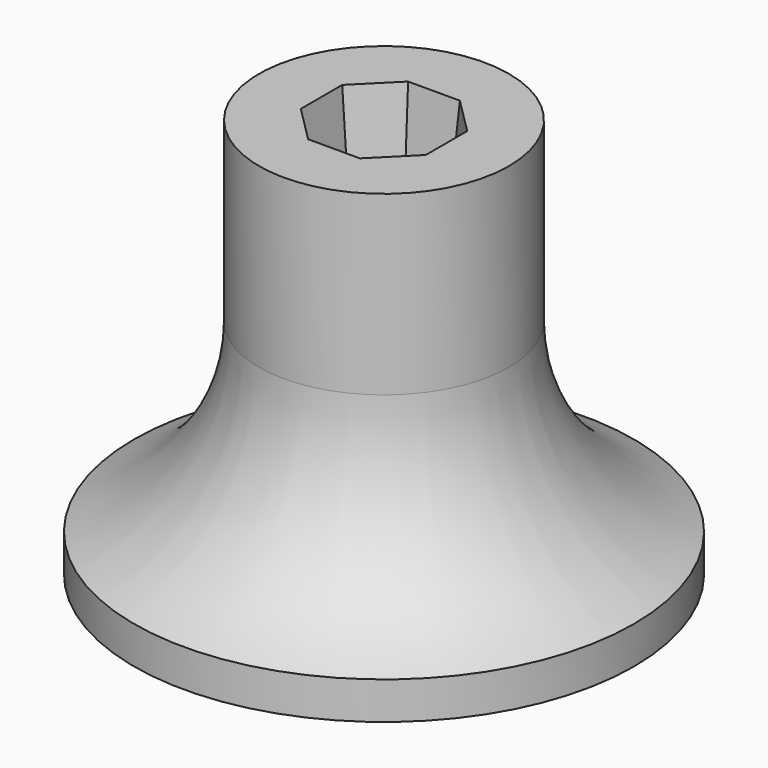
from build123d import *


with BuildPart() as f1:
    # F0 (on Front) → F1 (revolve)
    with BuildSketch(Plane.XZ):
        with BuildLine():
            Line((0, 50.8), (0, 0))
            Line((0, 0), (31.75, 0))
            Line((31.75, 0), (31.75, 4.7625))
            ThreePointArc((31.75, 4.7625), (20.214433, 14.109899), (15.875, 28.30893))
            Line((15.875, 28.30893), (15.875, 50.8))
            Line((15.875, 50.8), (0, 50.8))
        make_face()
    revolve(axis=Axis((0, 0, 25.4), (0, 0, -1)))

    # F2 (on face) → F5 section 0
    with BuildSketch(Plane.XY.offset(50.8)):
        Polygon((3.28782, 7.9375), (-3.28782, 7.9375), (-7.9375, 3.28782), (-7.9375, -3.28782), (-3.28782, -7.9375), (3.28782, -7.9375), (7.9375, -3.28782), (7.9375, 3.28782), align=None)
    # F4 (on offset) → F5 section 1
    with BuildSketch(Plane.XY.offset(34.925)):
        Polygon((2.630256, 6.35), (-2.630256, 6.35), (-6.35, 2.630256), (-6.35, -2.630256), (-2.630256, -6.35), (2.630256, -6.35), (6.35, -2.630256), (6.35, 2.630256), align=None)
    loft(mode=Mode.SUBTRACT)


solid = f1.part
